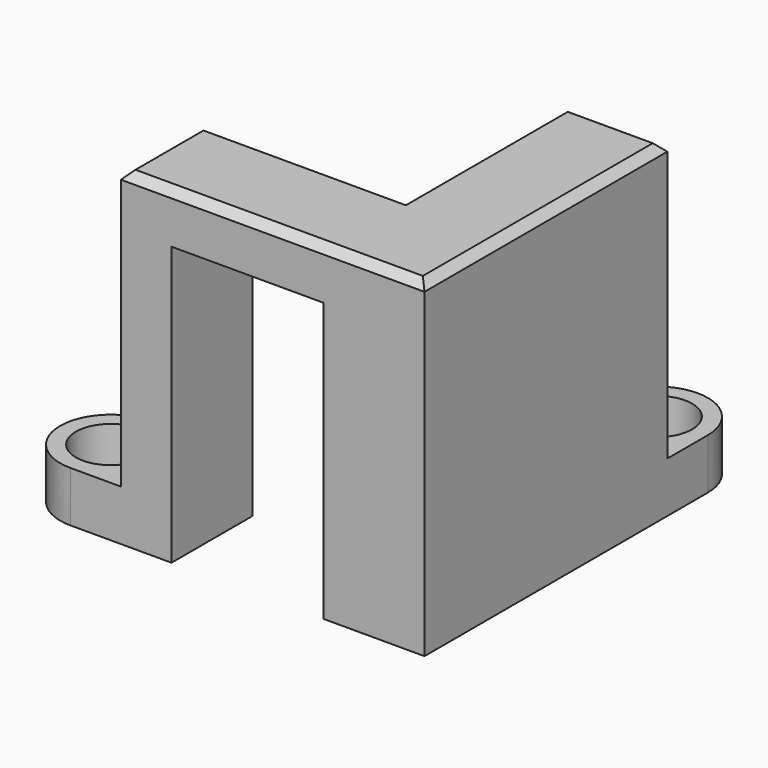
from build123d import *

# Parameters (mm, degrees)
F1_DEPTH       = 82.55
F2_DEPTH       = 12.7
F4_D           = 10.414
F4_CBORE_D     = 17.526
F4_CBORE_DEPTH = 9.906
F6_D           = 10.414
F6_CBORE_D     = 17.526
F6_CBORE_DEPTH = 9.906
F7_W           = 38.1
F7_H           = 69.85
F8_DEPTH       = 25.4
F9_SIZE        = 2.032
F10_SIZE       = 2.032
F11_SIZE       = 2.032
F12_SIZE       = 2.032
F13_SIZE       = 2.032
F14_SIZE       = 2.032


with BuildPart() as f1:
    # F0 (on Top) → F1 (new body)
    with BuildSketch(Plane.XY):
        Polygon((-72.4953562021, 0), (0, 0), (0, 76.2), (-25.4, 76.2), (-25.4, 25.4), (-63.5, 25.4), (-76.2, 25.4), (-76.2, 0), align=None)
    extrude(amount=F1_DEPTH)

    # F0 (on Top) → F2 (join)
    with BuildSketch(Plane.XY):
        Polygon((-72.4953562021, 0), (0, 0), (0, 76.2), (-25.4, 76.2), (-25.4, 25.4), (-63.5, 25.4), (-76.2, 25.4), (-76.2, 0), align=None)
        with BuildLine():
            Line((-25.4, 76.2), (0, 76.2))
            Line((0, 76.2), (0, 88.9))
            ThreePointArc((0, 88.9), (-3.7197438789, 97.8802561211), (-12.7, 101.6))
            ThreePointArc((-12.7, 101.6), (-21.6802561211, 97.8802561211), (-25.4, 88.9))
            Line((-25.4, 88.9), (-25.4, 76.2))
        make_face()
        with BuildLine():
            Line((-88.9, 0), (-76.2, 0))
            Line((-76.2, 0), (-76.2, 25.4))
            Line((-76.2, 25.4), (-88.9, 25.4))
            ThreePointArc((-88.9, 25.4), (-97.8802561211, 21.6802561211), (-101.6, 12.7))
            ThreePointArc((-101.6, 12.7), (-97.8802561211, 3.7197438789), (-88.9, 0))
        make_face()
    extrude(amount=F2_DEPTH)

    # F4 (through all)
    with Locations(Plane.XY.offset(12.7)):
        with Locations((-12.7, 88.9)):
            CounterBoreHole(F4_D / 2, F4_CBORE_D / 2, F4_CBORE_DEPTH)

    # F6 (through all)
    with Locations(Plane.XY.offset(12.7)):
        with Locations((-88.9, 12.7)):
            CounterBoreHole(F6_D / 2, F6_CBORE_D / 2, F6_CBORE_DEPTH)

    # F7 (on face) → F8 (cut)
    with BuildSketch(Plane(origin=(0, 25.4, 0), x_dir=(-1, 0, 0), z_dir=(0, 1, 0))):
        with Locations((44.45, 34.925)):
            Rectangle(F7_W, F7_H)
    extrude(amount=-F8_DEPTH, mode=Mode.SUBTRACT)

    # F9
    f9_edges = [f1.edges().sort_by_distance(p)[0] for p in [
        (0, 38.1, 82.55),
    ]]
    chamfer(f9_edges, length=F9_SIZE)

    # F10
    f10_edges = [f1.edges().sort_by_distance(p)[0] for p in [
        (-39.116, 0, 82.55),
    ]]
    chamfer(f10_edges, length=F10_SIZE)

    # F11
    f11_edges = [f1.edges().sort_by_distance(p)[0] for p in [
        (-25.4, 50.8, 82.55),
    ]]
    chamfer(f11_edges, length=F11_SIZE)

    # F12
    f12_edges = [f1.edges().sort_by_distance(p)[0] for p in [
        (-50.8, 25.4, 82.55),
    ]]
    chamfer(f12_edges, length=F12_SIZE)

    # F13
    f13_edges = [f1.edges().sort_by_distance(p)[0] for p in [
        (-12.7, 76.2, 82.55),
    ]]
    chamfer(f13_edges, length=F13_SIZE)

    # F14
    f14_edges = [f1.edges().sort_by_distance(p)[0] for p in [
        (-76.2, 12.7, 82.55),
    ]]
    chamfer(f14_edges, length=F14_SIZE)


solid = f1.part
